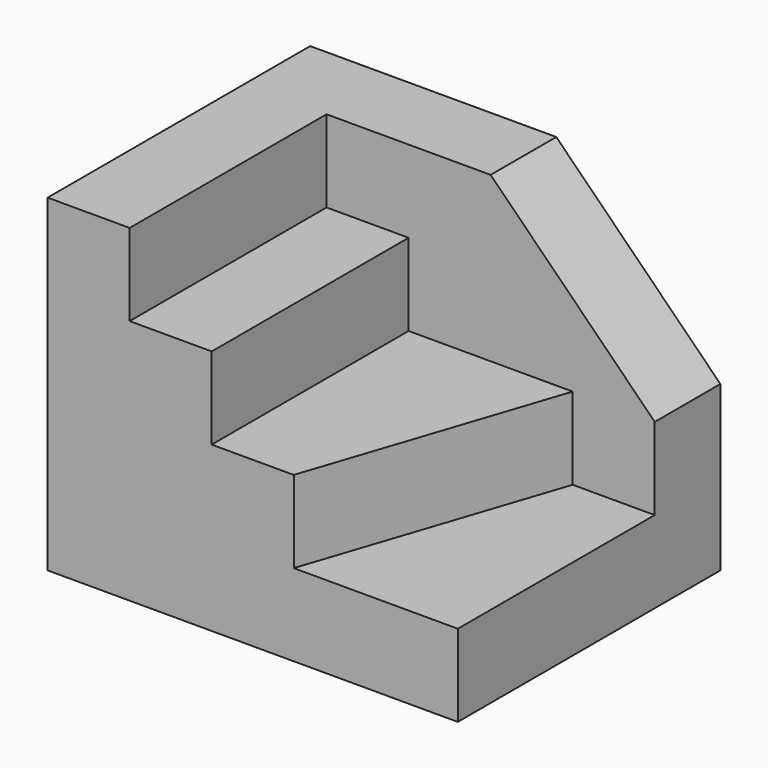
from build123d import *

# Parameters (mm, degrees)
F0_W     = 50
F0_H     = 40
F1_DEPTH = 40
F3_DEPTH = 30
F5_DEPTH = 20
F6_W     = 10
F6_H     = 30
F7_DEPTH = 10
F8_SIZE  = 20


with BuildPart() as f1:
    # F0 (on Top) → F1 (new body)
    with BuildSketch(Plane.XY):
        with Locations((25, 20)):
            Rectangle(F0_W, F0_H)
    extrude(amount=F1_DEPTH)

    # F2 (on face) → F3 (cut)
    with BuildSketch(Plane.XY.offset(40)):
        Polygon((50, 0), (50, 30), (40, 30), (30, 0), align=None)
    extrude(amount=-F3_DEPTH, mode=Mode.SUBTRACT)

    # F4 (on face) → F5 (cut)
    with BuildSketch(Plane.XY.offset(40)):
        Polygon((30, 0), (40, 30), (20, 30), (20, 0), align=None)
    extrude(amount=-F5_DEPTH, mode=Mode.SUBTRACT)

    # F6 (on face) → F7 (cut)
    with BuildSketch(Plane.XY.offset(40)):
        with Locations((15, 15)):
            Rectangle(F6_W, F6_H)
    extrude(amount=-F7_DEPTH, mode=Mode.SUBTRACT)

    # F8
    f8_edges = [f1.edges().sort_by_distance(p)[0] for p in [
        (50, 35, 40),
    ]]
    chamfer(f8_edges, length=F8_SIZE)


solid = f1.part
